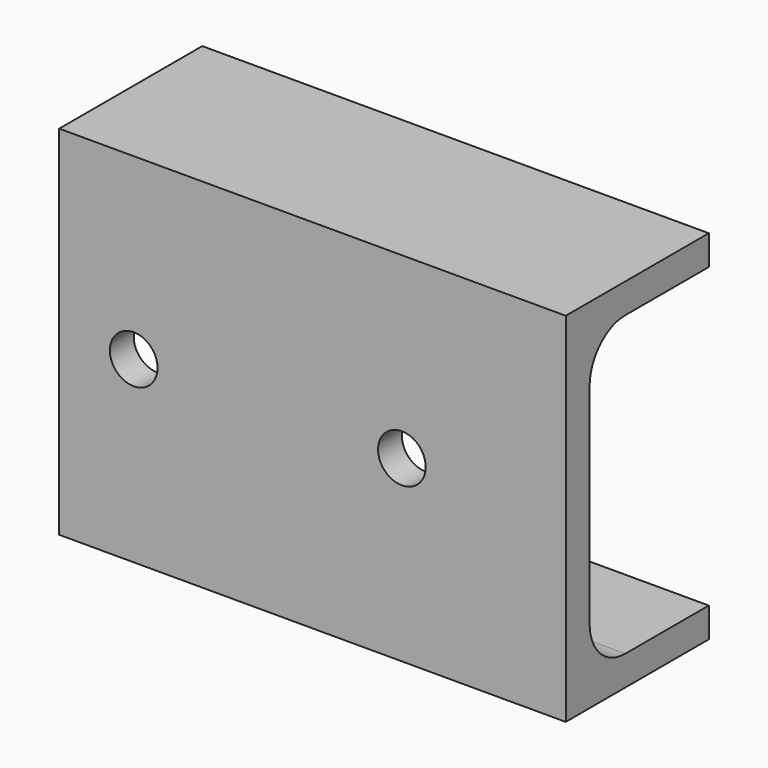
from build123d import *

# Parameters (mm, degrees)
CYLINDER458_R     = 1.6
CYLINDER458_DEPTH = 15
CYLINDER459_R     = 1.6
CYLINDER459_DEPTH = 15
BOX311_W          = 34
BOX311_H          = 12
BOX311_DEPTH      = 20
FILLET111_R       = 3
BOX310_W          = 34
BOX310_H          = 12
BOX310_DEPTH      = 24


with BuildPart() as cylinder458:
    # Cylinder458 → Cylinder458 (new body)
    with BuildSketch(Plane(origin=(588, 6, 10), x_dir=(1, 0, 0), z_dir=(0, -1, 0))):
        Circle(CYLINDER458_R)
    extrude(amount=CYLINDER458_DEPTH)


with BuildPart() as fusion415:
    # Cylinder459 → Cylinder459 (new body)
    with BuildSketch(Plane(origin=(570, 6, 10), x_dir=(1, 0, 0), z_dir=(0, -1, 0))):
        Circle(CYLINDER459_R)
    extrude(amount=CYLINDER459_DEPTH)

    # Fusion415: union Cylinder458
    add(cylinder458.part)


with BuildPart() as fusion415_1:
    # Fusion415 placement: moved
    add(fusion415.part.moved(Location((0, -4, 0))))


with BuildPart() as fillet111:
    # Box311 → Box311 (new body)
    with BuildSketch(Plane(origin=(565, -9, 0), x_dir=(1, 0, 0), z_dir=(0, 0, 1))):
        with Locations((17, 6)):
            Rectangle(BOX311_W, BOX311_H)
    extrude(amount=BOX311_DEPTH)

    # Fillet111
    fillet111_edges = [fillet111.edges().sort_by_distance(p)[0] for p in [
        (582, -9, 0),
        (582, -9, 20),
    ]]
    fillet(fillet111_edges, radius=FILLET111_R)


with BuildPart() as rear_cross_member_wide_holes:
    # Box310 → Box310 (new body)
    with BuildSketch(Plane(origin=(565, -11, -2), x_dir=(1, 0, 0), z_dir=(0, 0, 1))):
        with Locations((17, 6)):
            Rectangle(BOX310_W, BOX310_H)
    extrude(amount=BOX310_DEPTH)

    # Cut308: cut Fillet111
    add(fillet111.part, mode=Mode.SUBTRACT)

    # Cut309: cut Fusion415
    add(fusion415_1.part, mode=Mode.SUBTRACT)


solid = rear_cross_member_wide_holes.part
